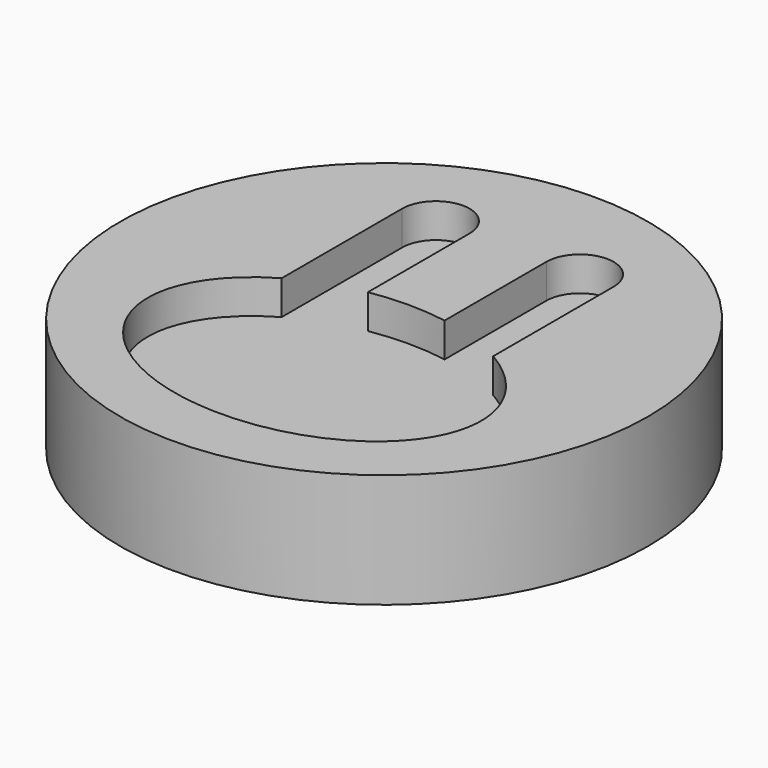
from build123d import *

# Parameters (mm, degrees)
F0_R     = 58.751581
F1_DEPTH = 17.78
F2_R     = 58.751581
F3_DEPTH = 7.62


with BuildPart() as f1:
    # F0 (on Top) → F1 (new body)
    with BuildSketch(Plane.XY):
        Circle(F0_R)
    extrude(amount=F1_DEPTH)

    # F2 (on face) → F3 (join)
    with BuildSketch(Plane.XY.offset(17.78)):
        Circle(F2_R)
        with BuildLine():
            add(Edge.make_bspline(
                [(37.105776, -19.34425), (37.105776, -6.939334), (23.526968, 0.926019)],
                knots=[0, 0, 0, 0.884015, 0.884015, 0.884015], degree=2, weights=[1, 0.903895, 1]))
            add(Edge.make_bspline(
                [(-23.526968, 0.926019), (-68.850136, -25.326856), (-15.87218, -43.038036), (37.105776, -60.749215), (37.105776, -19.34425)],
                knots=[2.257577, 2.257577, 2.257577, 4.270381, 4.270381, 6.283185, 6.283185, 6.283185], degree=2, weights=[1, 0.534904, 1, 0.534904, 1]))
            Line((-23.526968, 0.926019), (-23.526968, 34.455653))
            ThreePointArc((-23.526968, 34.455653), (-16.034477, 41.948144), (-8.541986, 34.455653))
            Line((-8.541986, 34.455653), (-8.541986, 6.16471))
            add(Edge.make_bspline(
                [(8.541986, 6.16471), (0, 7.592207), (-8.541986, 6.16471)],
                knots=[1.338507, 1.338507, 1.338507, 1.803086, 1.803086, 1.803086], degree=2, weights=[1, 0.973142, 1]))
            Line((8.541986, 6.16471), (8.541986, 34.455653))
            ThreePointArc((8.541986, 34.455653), (16.034477, 41.948144), (23.526968, 34.455653))
            Line((23.526968, 34.455653), (23.526968, 0.926019))
        make_face(mode=Mode.SUBTRACT)
    extrude(amount=F3_DEPTH)


solid = f1.part
